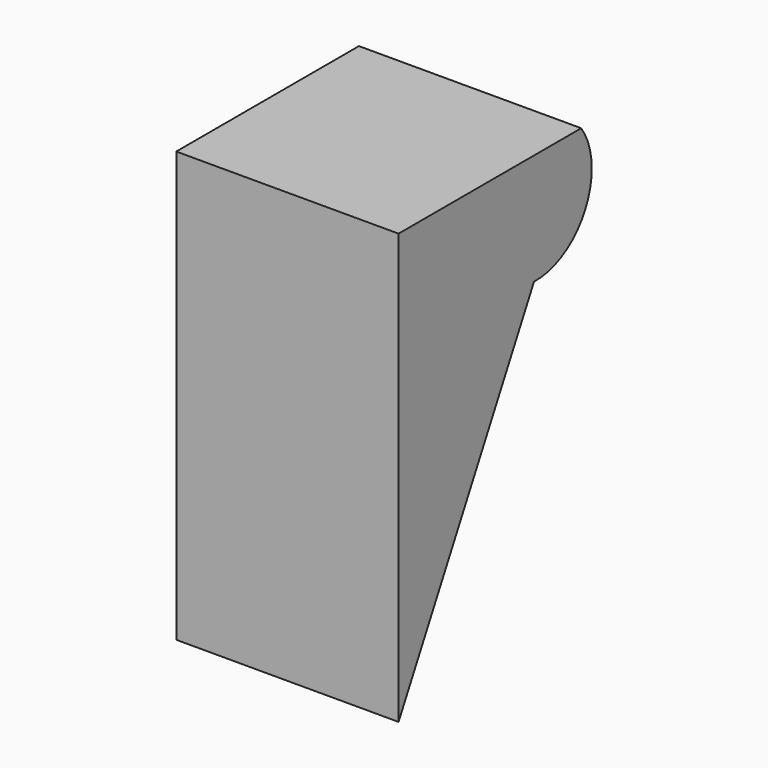
from build123d import *

# Parameters (mm, degrees)
F1_DEPTH = 33.528


with BuildPart() as f1:
    # F0 (on Right) → F1 (new body)
    with BuildSketch(Plane.YZ):
        with BuildLine():
            Line((17.217342, 0), (0, 0))
            Line((0, 0), (0, -64.830311))
            Line((0, -64.830311), (25.531009, -16.762982))
            ThreePointArc((25.531009, -16.762982), (16.335584, -10.880401), (17.217342, 0))
        make_face()
        with BuildLine():
            Line((34.434684, 0), (17.217342, 0))
            ThreePointArc((17.217342, 0), (16.335584, -10.880401), (25.531009, -16.762982))
            Line((25.531009, -16.762982), (34.434684, 0))
        make_face()
        with BuildLine():
            ThreePointArc((25.531009, -16.762982), (35.181688, -11.142861), (34.434684, 0))
            Line((34.434684, 0), (25.531009, -16.762982))
        make_face()
    extrude(amount=-F1_DEPTH)


solid = f1.part
